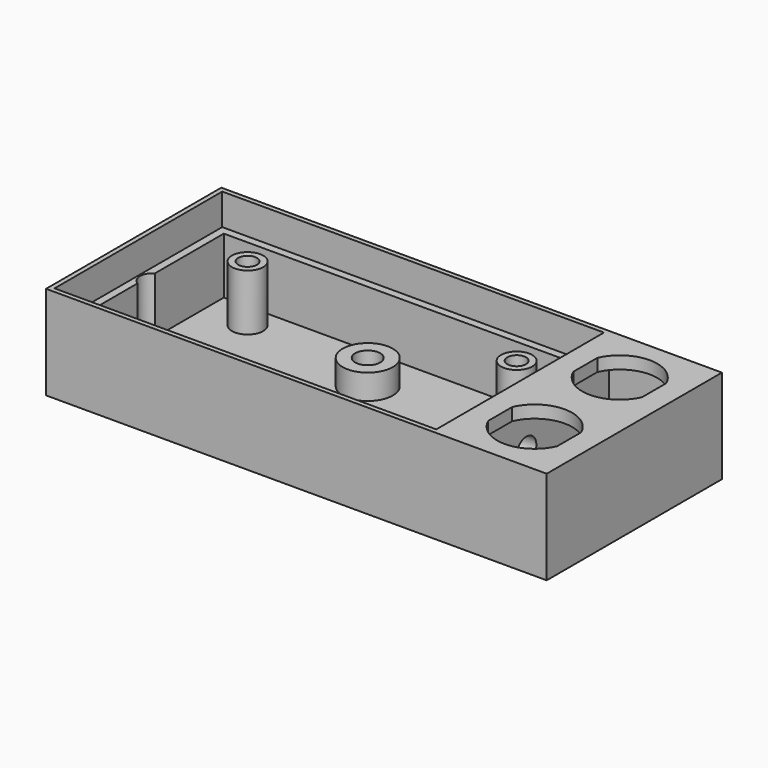
from build123d import *

# Parameters (mm, degrees)
SKETCH_W             = 80
SKETCH_H             = 35
PAD_DEPTH            = 15
SKETCH001_R          = 2.5
POCKET_DEPTH         = 14
SKETCH002_W          = 61
SKETCH002_H          = 33.5
POCKET001_DEPTH      = 5
SKETCH003_R          = 1.5
POCKET002_DEPTH      = 5
SKETCH004_R          = 4
PAD001_DEPTH         = 5
SKETCH005_R          = 2
POCKET003_DEPTH      = 5
SKETCH006_W          = 16.25
SKETCH006_H          = 33
POCKET004_DEPTH      = 13
POCKET005_DEPTH      = 15.001
SKETCH008_R          = 2
POCKET006_DEPTH      = 5.001
POCKET006_DEPTH_BACK = -10.001
SKETCH009_R          = 2
POCKET007_DEPTH      = 2.75


with BuildPart() as part:
    # Sketch → Pad (new body)
    with BuildSketch(Plane.XY):
        with Locations((40, 17.5)):
            Rectangle(SKETCH_W, SKETCH_H)
    extrude(amount=PAD_DEPTH)

    # Sketch001 (on Face6 of Pad) → Pocket (cut)
    with BuildSketch(Plane.XY.offset(15)):
        with BuildLine():
            Line((2, 33), (60, 33))
            Line((60, 33), (60, 2))
            Line((53.5, 2), (60, 2))
            ThreePointArc((53.5, 2), (52, 6.5), (50.5, 2))
            Line((10.5, 2), (50.5, 2))
            ThreePointArc((10.5, 2), (9, 6.5), (7.5, 2))
            Line((2, 2), (7.5, 2))
            Line((2, 2), (2, 33))
        make_face()
        with Locations((9, 29)):
            Circle(SKETCH001_R, mode=Mode.SUBTRACT)
        with Locations((52, 29)):
            Circle(SKETCH001_R, mode=Mode.SUBTRACT)
    extrude(amount=-POCKET_DEPTH, mode=Mode.SUBTRACT)

    # Sketch002 (on Face5 of Pocket) → Pocket001 (cut)
    with BuildSketch(Plane.XY.offset(15)):
        with Locations((31.25, 17.5)):
            Rectangle(SKETCH002_W, SKETCH002_H)
    extrude(amount=-POCKET001_DEPTH, mode=Mode.SUBTRACT)

    # Sketch003 (on Face24 of Pocket001) → Pocket002 (cut)
    with BuildSketch(Plane.XY.offset(10)):
        with Locations((9, 29)):
            Circle(SKETCH003_R)
        with Locations((9, 4)):
            Circle(SKETCH003_R)
        with Locations((52, 29)):
            Circle(SKETCH003_R)
        with Locations((52, 4)):
            Circle(SKETCH003_R)
    extrude(amount=-POCKET002_DEPTH, mode=Mode.SUBTRACT)

    # Sketch004 (on Face4 of Pocket002) → Pad001 (join)
    with BuildSketch(Plane(origin=(0, 0, 0), x_dir=(1, 0, 0), z_dir=(0, 0, -1))):
        with Locations((31, -9.5)):
            Circle(SKETCH004_R)
        with Locations((31, -25.5)):
            Circle(SKETCH004_R)
    extrude(amount=-PAD001_DEPTH)

    # Sketch005 (on Face4 of Pad001) → Pocket003 (cut)
    with BuildSketch(Plane(origin=(0, 0, 0), x_dir=(1, 0, 0), z_dir=(0, 0, -1))):
        with Locations((31, -9.5)):
            Circle(SKETCH005_R)
        with Locations((31, -25.5)):
            Circle(SKETCH005_R)
    extrude(amount=-POCKET003_DEPTH, mode=Mode.SUBTRACT)

    # Sketch006 (on Face4 of Pocket003) → Pocket004 (cut)
    with BuildSketch(Plane(origin=(0, 0, 0), x_dir=(1, 0, 0), z_dir=(0, 0, -1))):
        with Locations((70.875, -17.5)):
            Rectangle(SKETCH006_W, SKETCH006_H)
    extrude(amount=-POCKET004_DEPTH, mode=Mode.SUBTRACT)

    # Sketch007 (on Face5 of Pocket004) → Pocket005 (cut, through all)
    with BuildSketch(Plane.XY.offset(15)):
        with BuildLine():
            Line((65.375, 28.397916), (65.375, 23.602084))
            ThreePointArc((65.375, 23.602084), (70.875, 20), (76.375, 23.602084))
            Line((76.375, 28.397916), (76.375, 23.602084))
            ThreePointArc((76.375, 28.397916), (70.875, 32), (65.375, 28.397916))
        make_face()
        with BuildLine():
            Line((65.375, 11.397916), (65.375, 6.602084))
            ThreePointArc((65.375, 6.602084), (70.875, 3), (76.375, 6.602084))
            Line((76.375, 11.397916), (76.375, 6.602084))
            ThreePointArc((76.375, 11.397916), (70.875, 15), (65.375, 11.397916))
        make_face()
    extrude(amount=-POCKET005_DEPTH, mode=Mode.SUBTRACT)

    # Sketch008 (on Face43 of Pocket005) → Pocket006 (cut, two sides)
    with BuildSketch(Plane.XY.offset(5)) as pocket006_sk:
        with Locations((3, 17.5)):
            Circle(SKETCH008_R)
    extrude(amount=-POCKET006_DEPTH, mode=Mode.SUBTRACT)
    extrude(pocket006_sk.sketch, amount=-POCKET006_DEPTH_BACK, mode=Mode.SUBTRACT)

    # Sketch009 (on Face37 of Pocket006) → Pocket007 (cut)
    with BuildSketch(Plane(origin=(60, 0, 0), x_dir=(0, -1, 0), z_dir=(-1, 0, 0))):
        with Locations((-17.5, 5.5)):
            Circle(SKETCH009_R)
    extrude(amount=-POCKET007_DEPTH, mode=Mode.SUBTRACT)


solid = part.part
